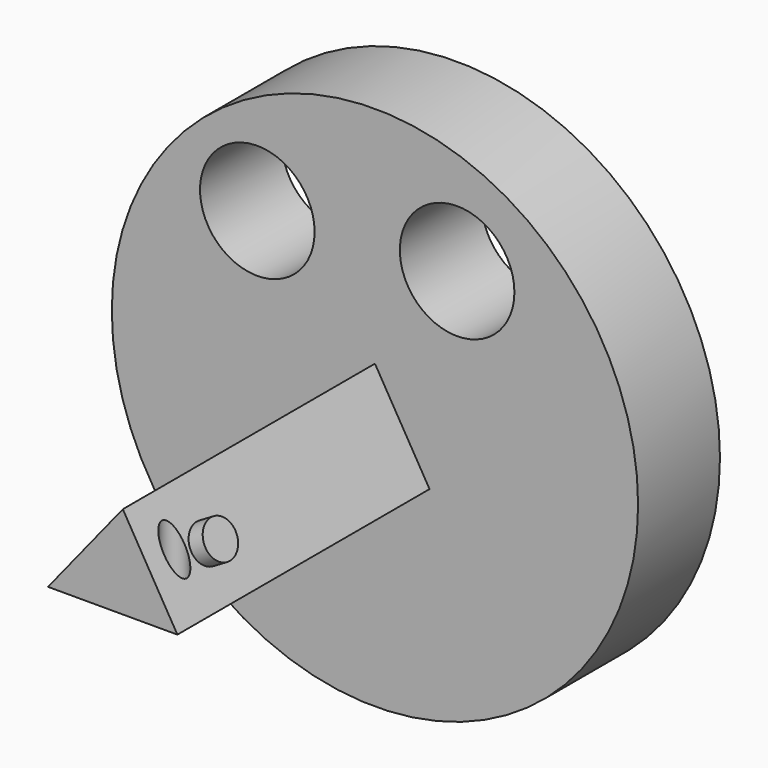
from build123d import *

# Parameters (mm, degrees)
F0_R     = 65.3266665863
F0_R_2   = 14.2206371293
F1_DEPTH = 25.4
F3_DEPTH = 78.232
F4_R     = 4.6434374505
F5_DEPTH = 4.064
F6_R     = 3.1082181898
F7_DEPTH = 28.956


with BuildPart() as f1:
    # F0 (on Front) → F1 (new body)
    with BuildSketch(Plane.XZ):
        Circle(F0_R)
        with Locations((-29.2034186423, 33.5097238421)):
            Circle(F0_R_2, mode=Mode.SUBTRACT)
        with Locations((20.3968770802, 36.4621244371)):
            Circle(F0_R_2, mode=Mode.SUBTRACT)
    extrude(amount=F1_DEPTH)

    # F2 (on face) → F3 (join)
    with BuildSketch(Plane.XZ.offset(25.4)):
        Polygon((13.5469222441, -13.4018808603), (0, 9.6108745784), (-18.5700003058, -13.4018808603), align=None)
    extrude(amount=F3_DEPTH)

    # F4 (on face) → F5 (join)
    with BuildSketch(Plane(origin=(4.2016325623, 0, 2.4733756795), x_dir=(0, 1, 0), z_dir=(0.8617703987, 0, 0.5072985117))):
        with Locations((-86.6145864129, -5.7229381055)):
            Circle(F4_R)
    extrude(amount=F5_DEPTH)

    # F6 (on face) → F7 (cut)
    with BuildSketch(Plane(origin=(0, 0, -13.4018808603), x_dir=(1, 0, 0), z_dir=(0, 0, -1))):
        with Locations((-10.1804379374, 95.2019169927)):
            Circle(F6_R)
        with Locations((6.03983727, 95.2019169927)):
            Circle(F6_R)
    extrude(amount=-F7_DEPTH, mode=Mode.SUBTRACT)


solid = f1.part
